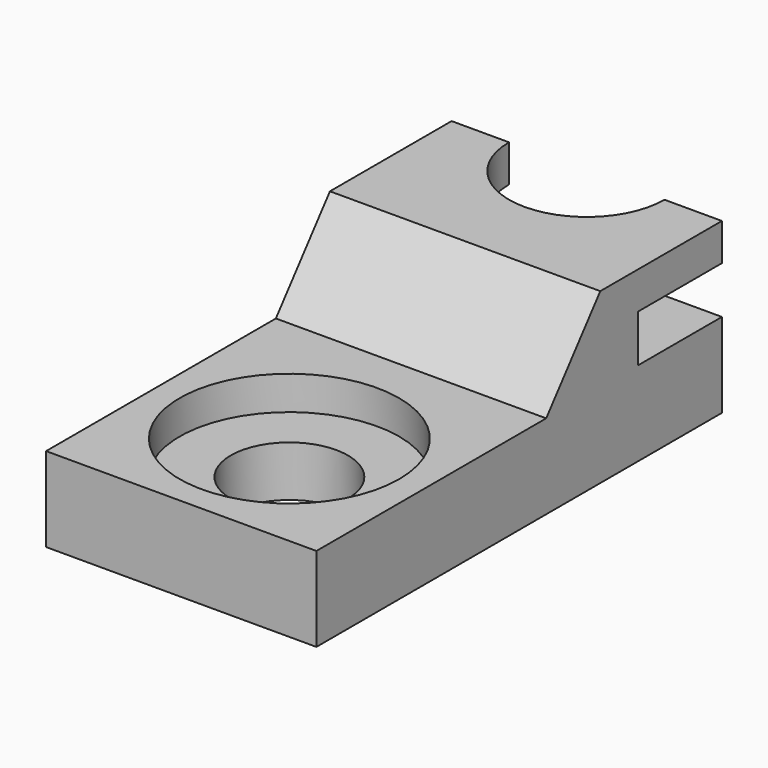
from build123d import *

# Parameters (mm, degrees)
F0_W           = 10.16
F0_H           = 19.05
F1_DEPTH       = 3.175
F4_DEPTH       = 10.16
F6_D           = 4.4
F6_DEPTH       = 12.7
F6_CBORE_D     = 8.25
F6_CBORE_DEPTH = 1.27
F7_R           = 25.4
F8_DEPTH       = 1.778
F9_R           = 2.921
F10_DEPTH      = 2.54


with BuildPart() as f1:
    # F0 (on Top) → F1 (new body)
    with BuildSketch(Plane.XY):
        Rectangle(F0_W, F0_H)
    extrude(amount=F1_DEPTH)

    # F2 (on face) → F4 (join, through all)
    with BuildSketch(Plane.YZ.offset(5.08)):
        Polygon((3.81, 6.35), (1.27, 3.175), (9.525, 3.175), (9.525, 6.35), align=None)
    extrude(amount=-F4_DEPTH)

    # F6
    with Locations(Plane.XY.offset(3.175)):
        with Locations((0, -4.445)):
            CounterBoreHole(F6_D / 2, F6_CBORE_D / 2, F6_CBORE_DEPTH, depth=F6_DEPTH)

    # F7 (on face) → F8 (cut)
    with BuildSketch(Plane.XY.offset(3.175)):
        with Locations((0, 30.48)):
            Circle(F7_R)
    extrude(amount=F8_DEPTH, mode=Mode.SUBTRACT)

    # F9 (on face) → F10 (cut)
    with BuildSketch(Plane.XY.offset(6.35)):
        with Locations((0, 9.525)):
            Circle(F9_R)
    extrude(amount=-F10_DEPTH, mode=Mode.SUBTRACT)


solid = f1.part
